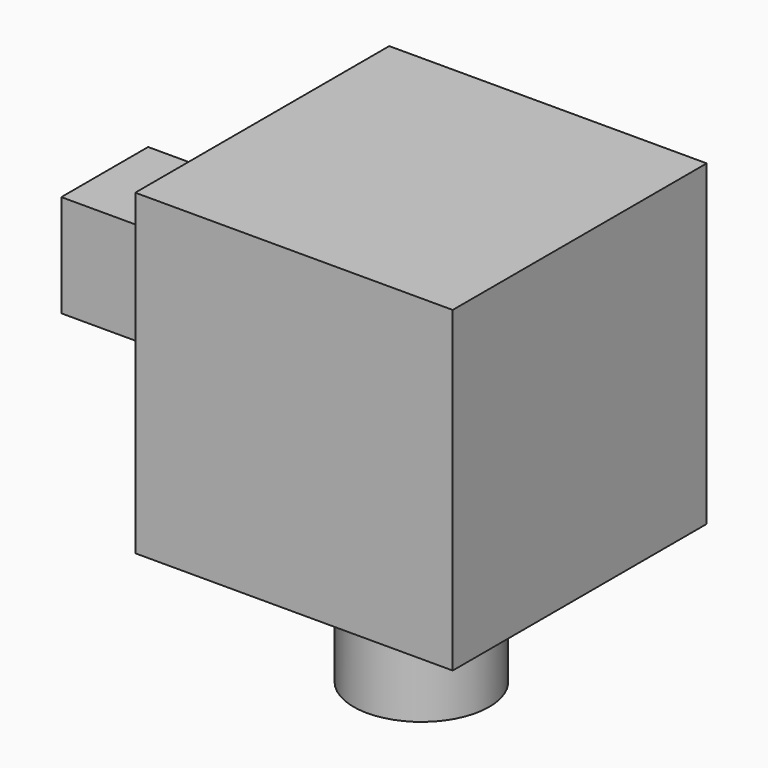
from build123d import *

# Parameters (mm, degrees)
F0_W     = 50.8
F0_H     = 50.8
F1_DEPTH = 50.8
F2_R     = 12.7
F3_DEPTH = 13.462
F4_R     = 10.859331
F5_DEPTH = 20.574
F6_W     = 17.36345
F6_H     = 16.376892
F7_DEPTH = 25.4


with BuildPart() as f1:
    # F0 (on Front) → F1 (new body)
    with BuildSketch(Plane.XZ):
        with Locations((25.4, 25.4)):
            Rectangle(F0_W, F0_H)
    extrude(amount=F1_DEPTH)

    # F2 (on Front) → F3 (cut)
    with BuildSketch(Plane.XZ):
        with Locations((24.959963, 25.354587)):
            Circle(F2_R)
    extrude(amount=F3_DEPTH, mode=Mode.SUBTRACT)

    # F4 (on Top) → F5 (join)
    with BuildSketch(Plane.XY):
        with Locations((24.959963, -24.762653)):
            Circle(F4_R)
    extrude(amount=-F5_DEPTH)

    # F6 (on face) → F7 (join)
    with BuildSketch(Plane(origin=(0, 0, 0), x_dir=(0, -1, 0), z_dir=(-1, 0, 0))):
        with Locations((25.157274, 26.834427)):
            Rectangle(F6_W, F6_H)
    extrude(amount=F7_DEPTH)


solid = f1.part
